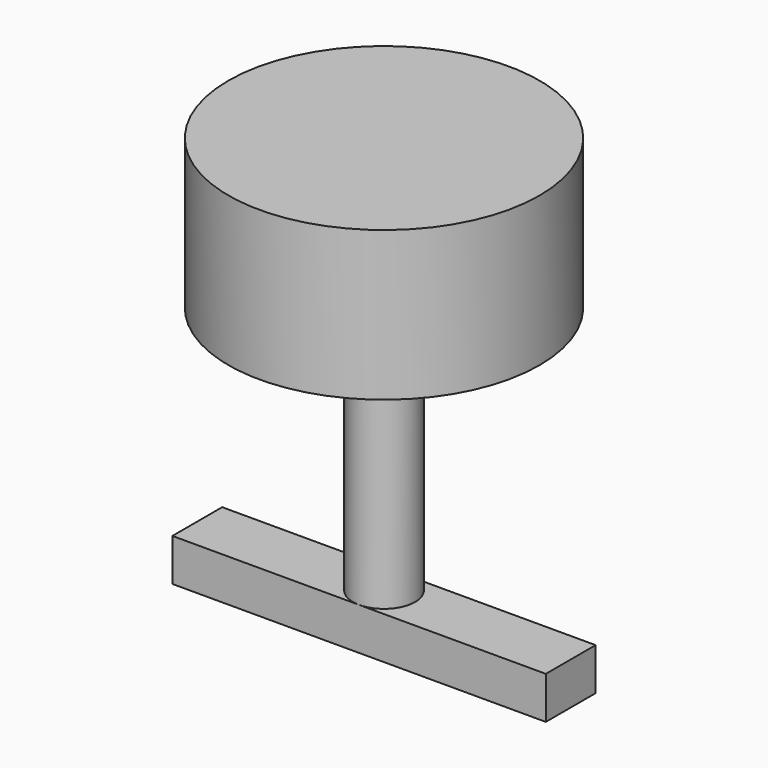
from build123d import *

# Parameters (mm, degrees)
F0_R     = 12.5
F1_DEPTH = 12
F2_R     = 2.5
F3_DEPTH = 20
F4_W     = 30
F4_H     = 5
F5_DEPTH = 3.4


with BuildPart() as f1:
    # F0 (on Top) → F1 (new body)
    with BuildSketch(Plane.XY):
        Circle(F0_R)
    extrude(amount=F1_DEPTH)

    # F2 (on face) → F3 (join)
    with BuildSketch(Plane(origin=(0, 0, 0), x_dir=(1, 0, 0), z_dir=(0, 0, -1))):
        Circle(F2_R)
    extrude(amount=F3_DEPTH)

    # F4 (on face) → F5 (join)
    with BuildSketch(Plane(origin=(0, 0, -20), x_dir=(1, 0, 0), z_dir=(0, 0, -1))):
        Rectangle(F4_W, F4_H)
    extrude(amount=F5_DEPTH)


solid = f1.part
